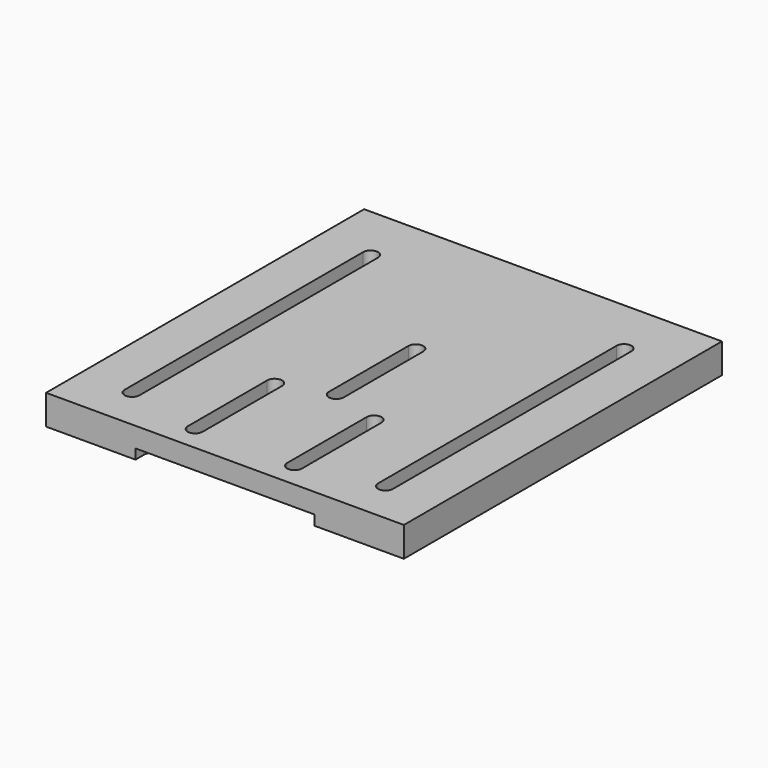
from build123d import *

# Parameters (mm, degrees)
F0_W     = 72
F0_H     = 80
F1_DEPTH = 6
F2_DEPTH = 6
F4_DEPTH = 2
F5_R     = 3


with BuildPart() as f1:
    # F0 (on Top) → F1 (new body)
    with BuildSketch(Plane.XY):
        Rectangle(F0_W, F0_H)
        with BuildLine():
            ThreePointArc((-8.5, -35), (-10, -36.5), (-11.5, -35))
            Line((-11.5, -35), (-11.5, -15))
            ThreePointArc((-11.5, -15), (-10, -13.5), (-8.5, -15))
            Line((-8.5, -15), (-8.5, -35))
        make_face(mode=Mode.SUBTRACT)
        with BuildLine():
            Line((-24, 28.5), (-24, -31.5))
            ThreePointArc((-24, -31.5), (-25.5, -33), (-27, -31.5))
            Line((-27, -31.5), (-27, 28.5))
            ThreePointArc((-27, 28.5), (-25.5, 30), (-24, 28.5))
        make_face(mode=Mode.SUBTRACT)
        with BuildLine():
            ThreePointArc((11.5, -35), (10, -36.5), (8.5, -35))
            Line((8.5, -35), (8.5, -15))
            ThreePointArc((8.5, -15), (10, -13.5), (11.5, -15))
            Line((11.5, -15), (11.5, -35))
        make_face(mode=Mode.SUBTRACT)
        with BuildLine():
            Line((-1.5, -12), (-1.5, 8))
            ThreePointArc((-1.5, 8), (0, 9.5), (1.5, 8))
            Line((1.5, 8), (1.5, -12))
            ThreePointArc((1.5, -12), (0, -13.5), (-1.5, -12))
        make_face(mode=Mode.SUBTRACT)
        with BuildLine():
            ThreePointArc((24, 28.5), (25.5, 30), (27, 28.5))
            Line((27, 28.5), (27, -31.5))
            ThreePointArc((27, -31.5), (25.5, -33), (24, -31.5))
            Line((24, -31.5), (24, 28.5))
        make_face(mode=Mode.SUBTRACT)
    extrude(amount=F1_DEPTH)

    # F0 (on Top) → F2 (cut)
    with BuildSketch(Plane.XY):
        Rectangle(F0_W, F0_H)
        with BuildLine():
            ThreePointArc((-8.5, -35), (-10, -36.5), (-11.5, -35))
            Line((-11.5, -35), (-11.5, -15))
            ThreePointArc((-11.5, -15), (-10, -13.5), (-8.5, -15))
            Line((-8.5, -15), (-8.5, -35))
        make_face(mode=Mode.SUBTRACT)
        with BuildLine():
            Line((-24, 28.5), (-24, -31.5))
            ThreePointArc((-24, -31.5), (-25.5, -33), (-27, -31.5))
            Line((-27, -31.5), (-27, 28.5))
            ThreePointArc((-27, 28.5), (-25.5, 30), (-24, 28.5))
        make_face(mode=Mode.SUBTRACT)
        with BuildLine():
            ThreePointArc((11.5, -35), (10, -36.5), (8.5, -35))
            Line((8.5, -35), (8.5, -15))
            ThreePointArc((8.5, -15), (10, -13.5), (11.5, -15))
            Line((11.5, -15), (11.5, -35))
        make_face(mode=Mode.SUBTRACT)
        with BuildLine():
            Line((-1.5, -12), (-1.5, 8))
            ThreePointArc((-1.5, 8), (0, 9.5), (1.5, 8))
            Line((1.5, 8), (1.5, -12))
            ThreePointArc((1.5, -12), (0, -13.5), (-1.5, -12))
        make_face(mode=Mode.SUBTRACT)
        with BuildLine():
            ThreePointArc((24, 28.5), (25.5, 30), (27, 28.5))
            Line((27, 28.5), (27, -31.5))
            ThreePointArc((27, -31.5), (25.5, -33), (24, -31.5))
            Line((24, -31.5), (24, 28.5))
        make_face(mode=Mode.SUBTRACT)
    extrude(amount=-F2_DEPTH, mode=Mode.SUBTRACT)

    # F3 (on face) → F4 (cut)
    with BuildSketch(Plane(origin=(0, 0, 0), x_dir=(1, 0, 0), z_dir=(0, 0, -1))):
        with BuildLine():
            Line((18, 35), (18, 40))
            Line((18, 40), (-18, 40))
            Line((-18, 40), (-18, 35))
            Line((-18, 35), (-11.5, 35))
            ThreePointArc((-11.5, 35), (-10, 36.5), (-8.5, 35))
            Line((-8.5, 35), (8.5, 35))
            ThreePointArc((8.5, 35), (10, 36.5), (11.5, 35))
            Line((11.5, 35), (18, 35))
        make_face()
    extrude(amount=-F4_DEPTH, mode=Mode.SUBTRACT)

    # F5
    f5_edges = [f1.edges().sort_by_distance(p)[0] for p in [
        (-18, -35, 1),
        (18, -35, 1),
    ]]
    fillet(f5_edges, radius=F5_R)


solid = f1.part
